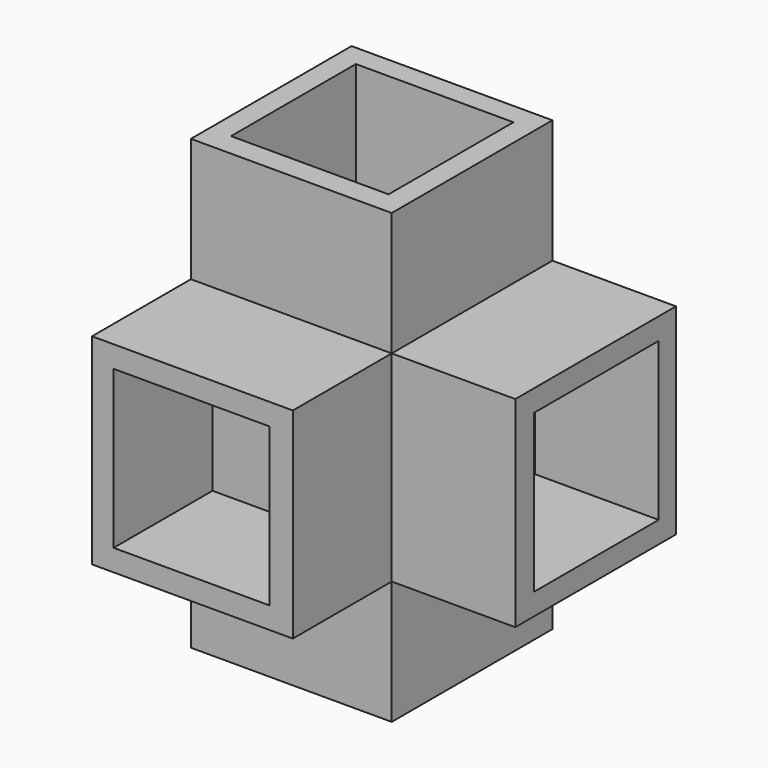
from build123d import *

# Parameters (mm, degrees)
F0_W          = 13
F0_H          = 21
F1_DEPTH      = 13
F3_W          = 13
F3_H          = 13
F4_DEPTH      = 8
F4_DEPTH_BACK = 21
F5_W          = 10.2
F5_H          = 10.1
F6_DEPTH      = 8
F7_W          = 10.2
F7_H          = 10.1
F8_DEPTH      = 8
F9_W          = 13
F9_H          = 13
F10_DEPTH     = 8
F2_W          = 10.1
F2_H          = 10.2
F12_DEPTH     = 8
F11_W         = 10.1
F11_H         = 10.2
F13_DEPTH     = 8


with BuildPart() as f1:
    # F0 (on Top) → F1 (new body)
    with BuildSketch(Plane.XY):
        with Locations((-21.92968, -0.716216)):
            Rectangle(F0_W, F0_H)
    extrude(amount=F1_DEPTH)

    # F3 (on face) → F4 (join, two sides)
    with BuildSketch(Plane.XY.offset(13)) as f4_sk:
        with Locations((-21.92968, 3.283784)):
            Rectangle(F3_W, F3_H)
    extrude(amount=F4_DEPTH)
    extrude(f4_sk.sketch, amount=-F4_DEPTH_BACK)

    # F5 (on face) → F6 (cut)
    with BuildSketch(Plane.XY.offset(21)):
        with Locations((-21.92968, 3.333784)):
            Rectangle(F5_W, F5_H)
    extrude(amount=-F6_DEPTH, mode=Mode.SUBTRACT)

    # F7 (on face) → F8 (cut)
    with BuildSketch(Plane(origin=(0, 0, -8), x_dir=(1, 0, 0), z_dir=(0, 0, -1))):
        with Locations((-21.92968, -3.333784)):
            Rectangle(F7_W, F7_H)
    extrude(amount=-F8_DEPTH, mode=Mode.SUBTRACT)

    # F9 (on face) → F10 (join)
    with BuildSketch(Plane.YZ.offset(-15.42968)):
        with Locations((3.283784, 6.5)):
            Rectangle(F9_W, F9_H)
    extrude(amount=F10_DEPTH)

    # F2 (on face) → F12 (cut)
    with BuildSketch(Plane.XZ.offset(11.216216)):
        with Locations((-21.97968, 6.5)):
            Rectangle(F2_W, F2_H)
    extrude(amount=-F12_DEPTH, mode=Mode.SUBTRACT)

    # F11 (on face) → F13 (cut)
    with BuildSketch(Plane.YZ.offset(-7.42968)):
        with Locations((3.333784, 6.5)):
            Rectangle(F11_W, F11_H)
    extrude(amount=-F13_DEPTH, mode=Mode.SUBTRACT)


solid = f1.part
